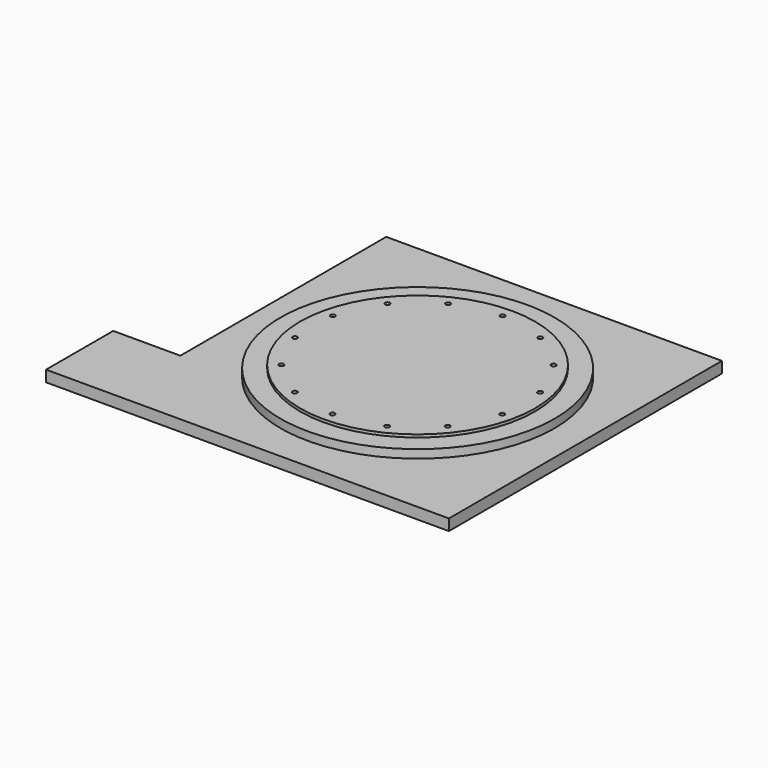
from build123d import *

# Parameters (mm, degrees)
F1_DEPTH = 20
F2_R     = 245
F3_DEPTH = 35
F4_R     = 210
F5_DEPTH = 5
F7_D     = 8.5
F7_DEPTH = 16.5
F7_TIP   = 2.5536576309


with BuildPart() as f1:
    # F0 (on Top) → F1 (new body)
    with BuildSketch(Plane.XY):
        Polygon((-300, -305), (300, -305), (300, 305), (-300, 305), (-300, -155), (-420, -155), (-420, -305), align=None)
    extrude(amount=F1_DEPTH)


with BuildPart() as f3:
    # F2 (on Top) → F3 (new body)
    with BuildSketch(Plane.XY):
        Circle(F2_R)
    extrude(amount=F3_DEPTH)

    # F4 (on face) → F5 (join)
    with BuildSketch(Plane.XY.offset(35)):
        Circle(F4_R)
    extrude(amount=F5_DEPTH)

    # F7
    with Locations(Plane.XY.offset(40)):
        with Locations((0, 190), (82.4379104323, 171.1840849015), (148.5479816689, 118.4630623532), (185.2363033145, 42.2789774517), (185.2363033145, -42.2789774517), (148.5479816689, -118.4630623532), (82.4379104323, -171.1840849015), (0, -190), (-82.4379104323, -171.1840849015), (-148.5479816689, -118.4630623532), (-185.2363033145, -42.2789774517), (-185.2363033145, 42.2789774517), (-148.5479816689, 118.4630623532), (-82.4379104323, 171.1840849015)):
            Hole(F7_D / 2, depth=F7_DEPTH)
            with Locations((0, 0, -(F7_DEPTH + F7_TIP / 2))):  # 118° drill point
                Cone(0, F7_D / 2, F7_TIP, mode=Mode.SUBTRACT)


solid = Compound([f1.part, f3.part])
